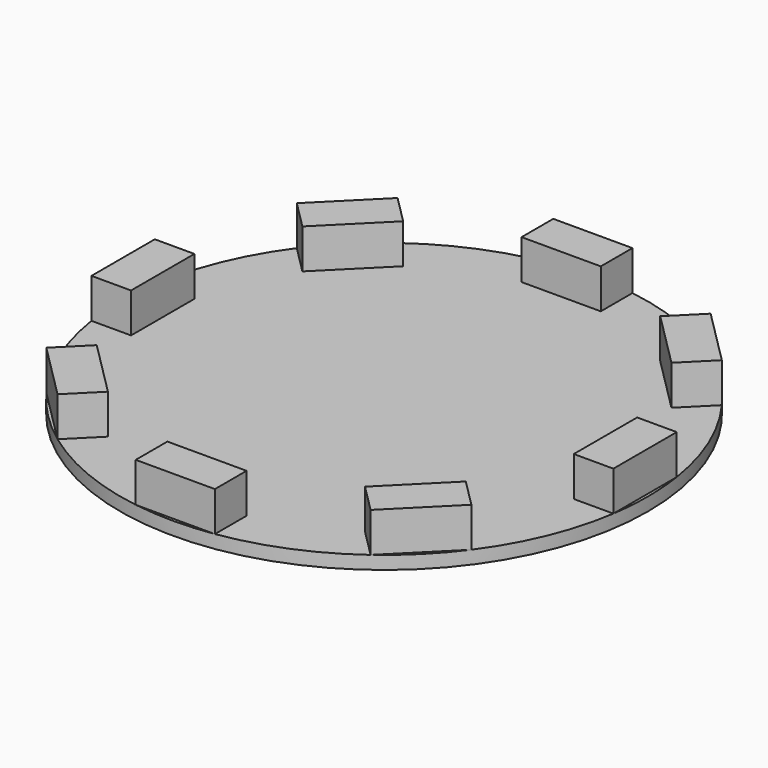
from build123d import *

# Parameters (mm, degrees)
F0_R     = 25.4
F1_DEPTH = 1.27
F2_W     = 3.81
F2_H     = 7.62
F3_DEPTH = 5.08
F4_COUNT = 8


with BuildPart() as f1:
    # F0 (on Top) → F1 (new body)
    with BuildSketch(Plane.XY):
        Circle(F0_R)
    extrude(amount=F1_DEPTH)

    # F2 (on Top) → F3 (join)
    with BuildSketch(Plane.XY):
        with Locations((-23.2076243153, 0)):
            Rectangle(F2_W, F2_H)
    extrude(amount=F3_DEPTH)

    # F4: F1 ×8 about axis
    f4_axis = Axis((0, 0, 1.27), (0, 0, 1))


with BuildPart() as f1_1:
    add(f1.part)
    for i in range(1, F4_COUNT):
        add(f1.part.rotate(f4_axis, i * 360 / F4_COUNT))


solid = f1_1.part
